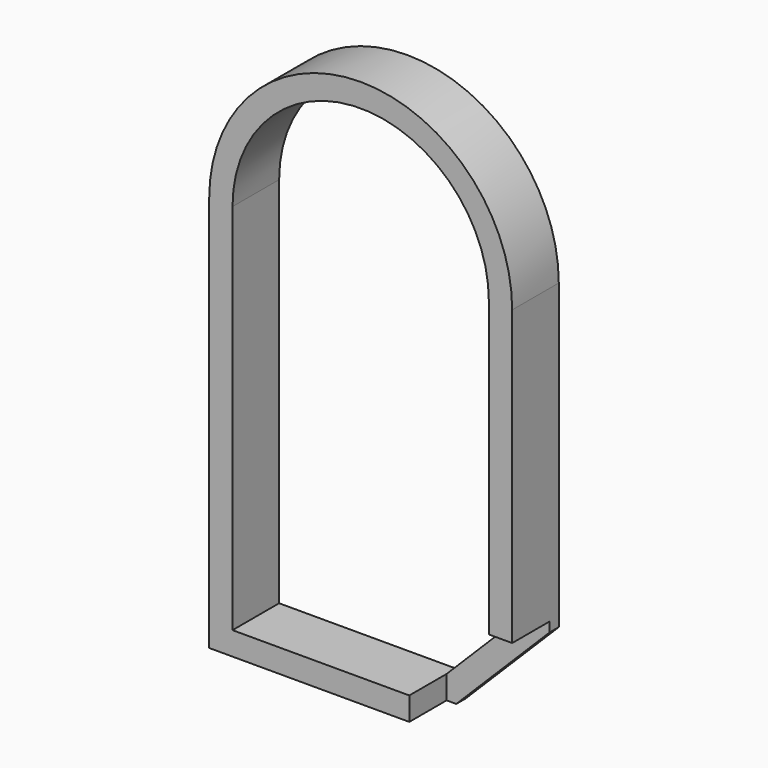
from build123d import *

# Parameters (mm, degrees)
F1_DEPTH = 2.5
F3_DEPTH = 2


with BuildPart() as f1:
    # F0 (on Front) → F1 (new body)
    with BuildSketch(Plane.XZ):
        with BuildLine():
            Line((6.5, -13), (6.5, 0))
            ThreePointArc((6.5, 0), (0, 6.5), (-6.5, 0))
            Line((-6.5, 0), (-6.5, -17))
            Line((-6.5, -17), (2.5, -17))
            Line((2.5, -17), (6.5, -13))
        make_face()
        with BuildLine():
            Line((-5.5, -16), (-5.5, 0))
            ThreePointArc((-5.5, 0), (0, 5.5), (5.5, 0))
            Line((5.5, 0), (5.5, -12.585786))
            Line((5.5, -12.585786), (2.085786, -16))
            Line((2.085786, -16), (-5.5, -16))
        make_face(mode=Mode.SUBTRACT)
    extrude(amount=F1_DEPTH)

    # F2 (on face) → F3 (cut)
    with BuildSketch(Plane.XZ.offset(2.5)):
        Polygon((6.5, -12.585786), (5.5, -12.585786), (2.085786, -16), (2.085786, -17), (2.5, -17), (6.5, -13), align=None)
    extrude(amount=-F3_DEPTH, mode=Mode.SUBTRACT)


solid = f1.part
